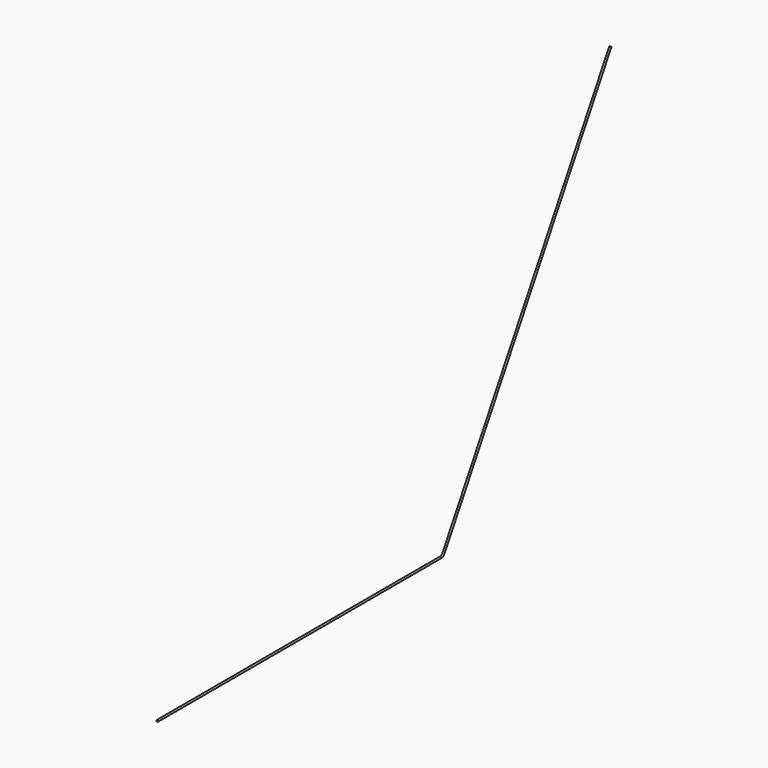
from build123d import *

# Parameters (mm, degrees)
F2_R = 5


with BuildPart() as f3:
    # F3: sweep along a path in F0
    with BuildLine(Plane.YZ) as f3_path:
        Line((0, 0), (25, 0))
        Line((25, 0), (1995.566243, 0))
        ThreePointArc((1995.566243, 0), (2008.066243, 3.349365), (2017.216878, 12.5))
        Line((2017.216878, 12.5), (3193.568052, 2050))
    # F2 (on Front) → F3 (sweep)
    with BuildSketch(Plane.XZ):
        Circle(F2_R)
    sweep(path=f3_path.line)


solid = f3.part
